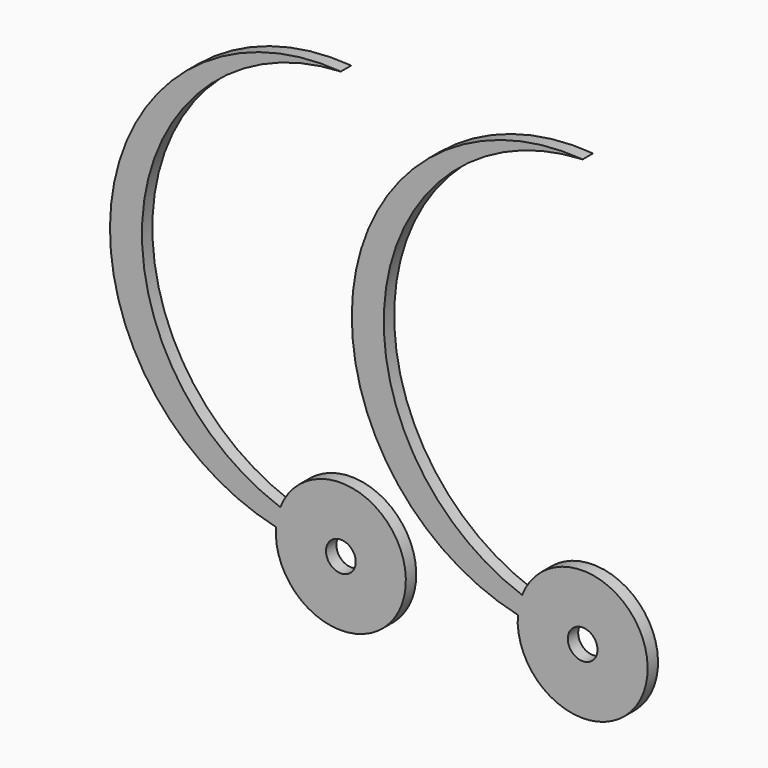
from build123d import *

# Parameters (mm, degrees)
F0_R     = 2.902065
F1_DEPTH = 2.54


with BuildPart() as f1:
    # F0 (on Front) → F1 (new body)
    with BuildSketch(Plane.XZ):
        with BuildLine():
            ThreePointArc((-11.823473, 4.636324), (-38.40814, 48.902403), (0, 83.413924))
            ThreePointArc((0, 83.413924), (-44.624043, 48.056962), (-12.6652, 0.939531))
            ThreePointArc((-12.6652, 0.939531), (12.383066, -2.819515), (-11.823473, 4.636324))
        make_face()
        Circle(F0_R, mode=Mode.SUBTRACT)
    extrude(amount=F1_DEPTH)


with BuildPart() as f2_1:
    # F2: copy of F1
    add(f1.part.moved(Location((-47.244, 0, -0.254))))


solid = Compound([f1.part, f2_1.part])
